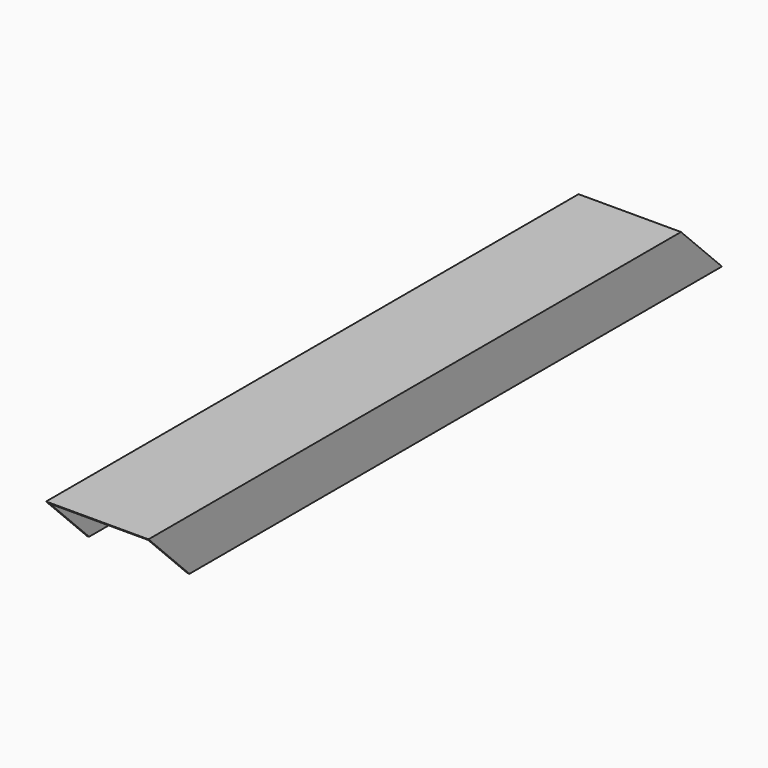
from build123d import *

# Parameters (mm, degrees)
F1_DEPTH = 350
F3_DEPTH = 100.001


with BuildPart() as f1:
    # F0 (on Front) → F1 (new body, symmetric)
    with BuildSketch(Plane.XZ):
        Polygon((50, 28.887949), (0, 28.887949), (-50, 28.887949), (-50, -21.112051), (-48, -21.112051), (-48, 26.887949), (0, 26.887949), (48, 26.887949), (48, -21.112051), (50, -21.112051), align=None)
    extrude(amount=F1_DEPTH, both=True)

    # F2 (on face) → F3 (cut, through all)
    with BuildSketch(Plane.YZ.offset(50)):
        Polygon((-300, -21.112051), (-350, 28.887949), (-350, -21.112051), align=None)
        Polygon((350, 28.887949), (300, 28.887949), (350, -21.112051), align=None)
    extrude(amount=-F3_DEPTH, mode=Mode.SUBTRACT)


solid = f1.part
